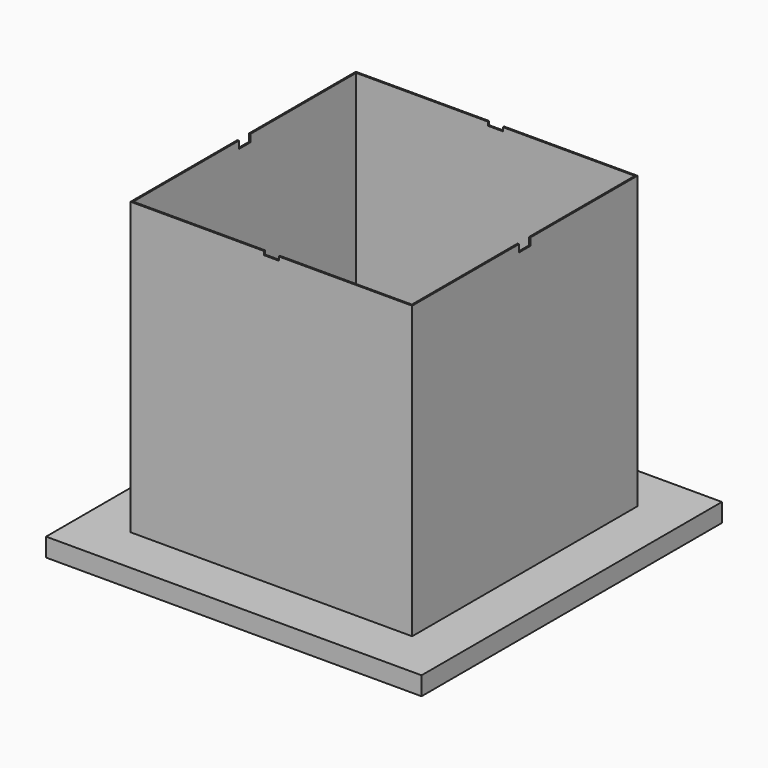
from build123d import *

# Parameters (mm, degrees)
F0_W     = 203.2
F0_H     = 203.2
F0_R     = 1
F1_DEPTH = 0.8
F2_W     = 203.2
F2_H     = 203.2
F2_W_2   = 201.6
F2_H_2   = 201.6
F3_DEPTH = 9.2
F4_W     = 152.4
F4_H     = 152.4
F4_W_2   = 150.8
F4_H_2   = 150.8
F5_DEPTH = 157.48
F6_W     = 8
F6_H     = 2
F7_DEPTH = 177.801
F8_W     = 8
F8_H     = 4
F9_DEPTH = 177.801


with BuildPart() as f1:
    # F0 (on Top) → F1 (new body)
    with BuildSketch(Plane.XY):
        Rectangle(F0_W, F0_H)
        Circle(F0_R, mode=Mode.SUBTRACT)
    extrude(amount=F1_DEPTH)

    # F2 (on face) → F3 (join)
    with BuildSketch(Plane(origin=(0, 0, 0), x_dir=(1, 0, 0), z_dir=(0, 0, -1))):
        Rectangle(F2_W, F2_H)
        Rectangle(F2_W_2, F2_H_2, mode=Mode.SUBTRACT)
    extrude(amount=F3_DEPTH)


with BuildPart() as f5:
    # F4 (on face) → F5 (new body)
    with BuildSketch(Plane.XY.offset(0.8)):
        Rectangle(F4_W, F4_H)
        Rectangle(F4_W_2, F4_H_2, mode=Mode.SUBTRACT)
    extrude(amount=F5_DEPTH)

    # F6 (on face) → F7 (cut, through all)
    with BuildSketch(Plane.XZ.offset(76.2)):
        with Locations((0, 157.28)):
            Rectangle(F6_W, F6_H)
    extrude(amount=-F7_DEPTH, mode=Mode.SUBTRACT)

    # F8 (on face) → F9 (cut, through all)
    with BuildSketch(Plane(origin=(-76.2, 0, 0), x_dir=(0, -1, 0), z_dir=(-1, 0, 0))):
        with Locations((0, 156.28)):
            Rectangle(F8_W, F8_H)
    extrude(amount=-F9_DEPTH, mode=Mode.SUBTRACT)


solid = Compound([f1.part, f5.part])
